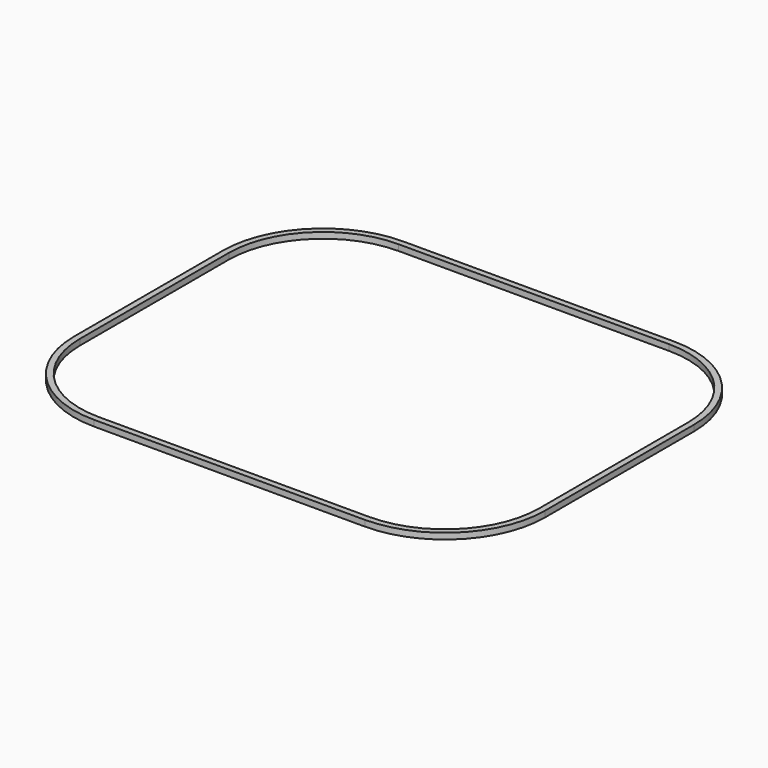
from build123d import *

# Parameters (mm, degrees)
F0_W     = 500
F0_H     = 6.35
F1_DEPTH = 410
F3_DEPTH = 25
F4_W     = 517.022076
F4_H     = 424.169128
F5_DEPTH = 25


with BuildPart() as f1:
    # F0 (on Front) → F1 (new body)
    with BuildSketch(Plane.XZ):
        with Locations((250, 3.175)):
            Rectangle(F0_W, F0_H)
    extrude(amount=F1_DEPTH)

    # F2 (on face) → F3 (cut)
    with BuildSketch(Plane.XY.offset(6.35)):
        with BuildLine():
            Line((393.65, -6.35), (106.35, -6.35))
            ThreePointArc((106.35, -6.35), (35.639322, -35.639322), (6.35, -106.35))
            Line((6.35, -106.35), (6.35, -303.65))
            ThreePointArc((6.35, -303.65), (35.639322, -374.360678), (106.35, -403.65))
            Line((106.35, -403.65), (393.65, -403.65))
            ThreePointArc((393.65, -403.65), (464.360678, -374.360678), (493.65, -303.65))
            Line((493.65, -303.65), (493.65, -106.35))
            ThreePointArc((493.65, -106.35), (464.360678, -35.639322), (393.65, -6.35))
        make_face()
    extrude(amount=-F3_DEPTH, mode=Mode.SUBTRACT)

    # F4 (on face) → F5 (cut)
    with BuildSketch(Plane.XY.offset(6.35)):
        with Locations((249.736218, -205.263791)):
            Rectangle(F4_W, F4_H)
        with BuildLine():
            ThreePointArc((0, -106.35), (31.149194, -31.149194), (106.35, 0))
            Line((106.35, 0), (393.65, 0))
            ThreePointArc((393.65, 0), (468.850806, -31.149194), (500, -106.35))
            Line((500, -106.35), (500, -303.65))
            ThreePointArc((500, -303.65), (468.850806, -378.850806), (393.65, -410))
            Line((393.65, -410), (106.35, -410))
            ThreePointArc((106.35, -410), (31.149194, -378.850806), (0, -303.65))
            Line((0, -303.65), (0, -106.35))
        make_face(mode=Mode.SUBTRACT)
    extrude(amount=-F5_DEPTH, mode=Mode.SUBTRACT)


solid = f1.part
